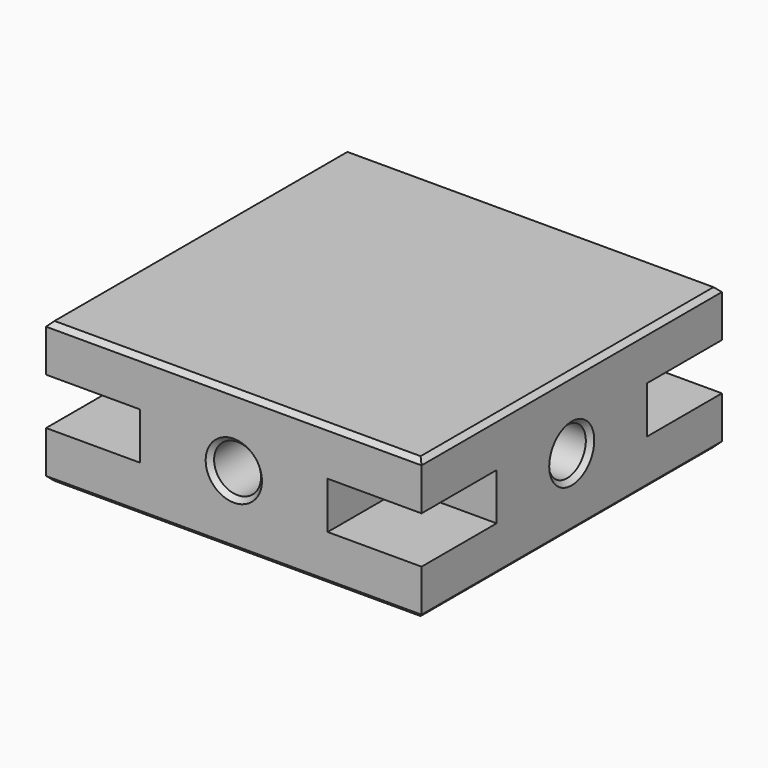
from build123d import *

# Parameters (mm, degrees)
F0_W     = 400
F0_H     = 150
F1_DEPTH = 400
F2_W     = 100
F2_H     = 50
F3_DEPTH = 100
F4_W     = 100
F4_H     = 50
F5_DEPTH = 100
F6_R     = 25
F7_DEPTH = 400.001
F8_R     = 25
F9_DEPTH = 400.001
F10_SIZE = 5


with BuildPart() as f1:
    # F0 (on Front) → F1 (new body)
    with BuildSketch(Plane.XZ):
        Rectangle(F0_W, F0_H)
    extrude(amount=F1_DEPTH)

    # F2 (on face) → F3 (cut)
    with BuildSketch(Plane.XZ.offset(400)):
        with Locations((150, 0)):
            Rectangle(F2_W, F2_H)
        with Locations((-150, 0)):
            Rectangle(F2_W, F2_H)
    extrude(amount=-F3_DEPTH, mode=Mode.SUBTRACT)

    # F4 (on face) → F5 (cut)
    with BuildSketch(Plane(origin=(0, 0, 0), x_dir=(-1, 0, 0), z_dir=(0, 1, 0))):
        with Locations((150, 0)):
            Rectangle(F4_W, F4_H)
        with Locations((-150, 0)):
            Rectangle(F4_W, F4_H)
    extrude(amount=-F5_DEPTH, mode=Mode.SUBTRACT)

    # F6 (on face) → F7 (cut, through all)
    with BuildSketch(Plane(origin=(0, 0, 0), x_dir=(-1, 0, 0), z_dir=(0, 1, 0))):
        Circle(F6_R)
    extrude(amount=-F7_DEPTH, mode=Mode.SUBTRACT)

    # F8 (on face) → F9 (cut, through all)
    with BuildSketch(Plane(origin=(-200, 0, 0), x_dir=(0, -1, 0), z_dir=(-1, 0, 0))):
        with Locations((200, 0)):
            Circle(F8_R)
    extrude(amount=-F9_DEPTH, mode=Mode.SUBTRACT)

    # F10
    f10_edges = [f1.edges().sort_by_distance(p)[0] for p in [
        (-200, -200, 75),
        (-200, -200, -75),
        (0, 0, 75),
        (0, 0, -75),
        (-200, -175, 0),
        (25, 0, 0),
        (200, -200, -75),
        (200, -200, 75),
        (200, -175, 0),
        (0, -400, -75),
        (0, -400, 75),
        (25, -400, 0),
    ]]
    chamfer(f10_edges, length=F10_SIZE)


solid = f1.part
